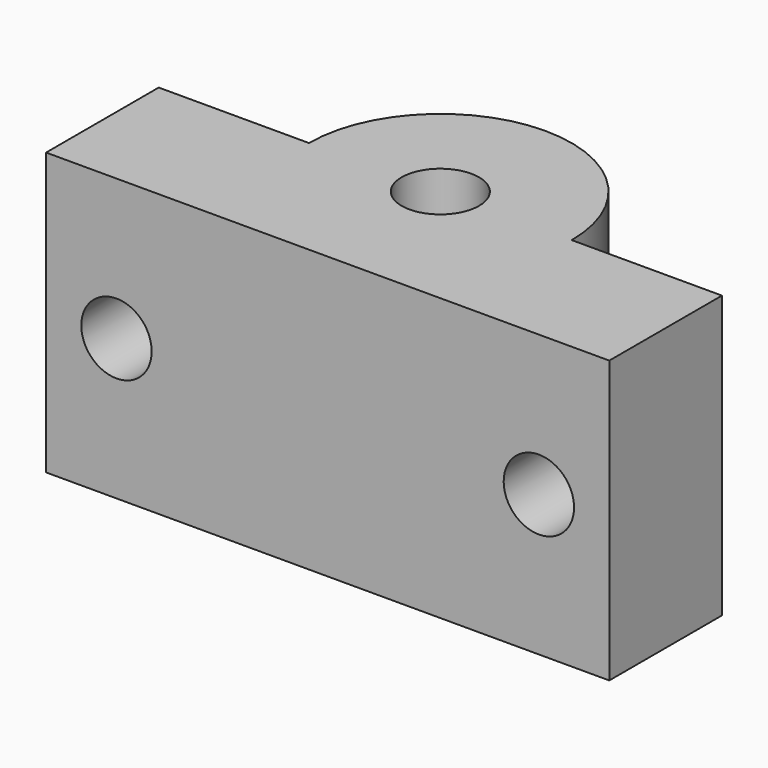
from build123d import *

# Parameters (mm, degrees)
F1_DEPTH = 25.4
F2_R     = 3.175
F3_DEPTH = 25.4


with BuildPart() as f1:
    # F0 (on Top) → F1 (new body)
    with BuildSketch(Plane.XY):
        with BuildLine():
            Line((25.4, 0), (11.850986, 0))
            ThreePointArc((11.850986, 0), (0, 11.850986), (-11.850986, 0))
            Line((-11.850986, 0), (-25.4, 0))
            Line((-25.4, 0), (-25.4, -12.7))
            Line((-25.4, -12.7), (25.4, -12.7))
            Line((25.4, -12.7), (25.4, 0))
        make_face()
        with BuildLine():
            ThreePointArc((-3.4925, 0), (0, 3.4925), (3.4925, 0))
            ThreePointArc((3.4925, 0), (0, -3.4925), (-3.4925, 0))
        make_face(mode=Mode.SUBTRACT)
    extrude(amount=F1_DEPTH)

    # F2 (on face) → F3 (cut)
    with BuildSketch(Plane(origin=(0, 0, 0), x_dir=(-1, 0, 0), z_dir=(0, 1, 0))):
        with Locations((19.05, 12.7)):
            Circle(F2_R)
        with Locations((-19.05, 12.7)):
            Circle(F2_R)
    extrude(amount=-F3_DEPTH, mode=Mode.SUBTRACT)


solid = f1.part
